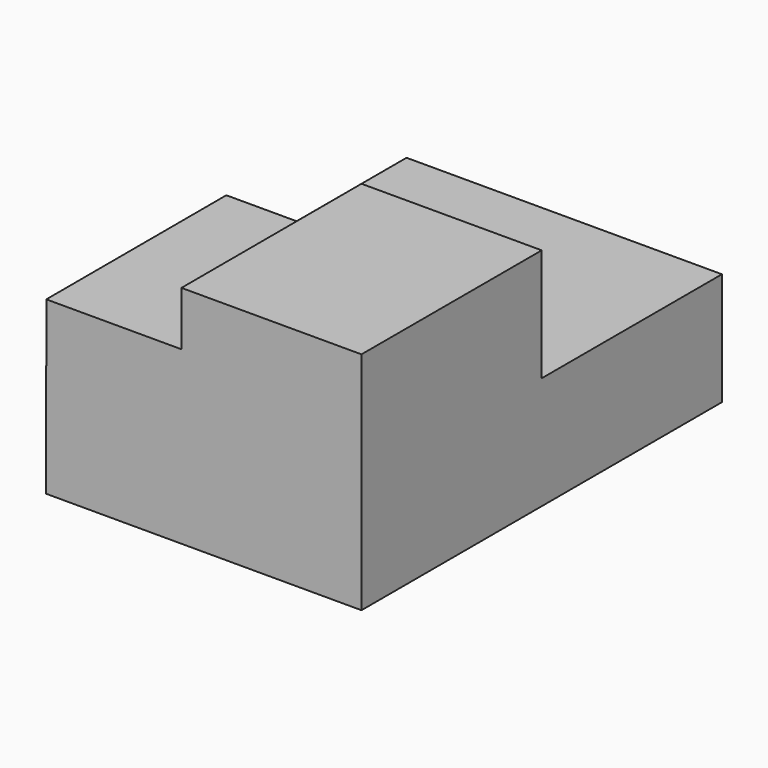
from build123d import *

# Parameters (mm, degrees)
F0_W     = 1778
F0_H     = 2540
F1_DEPTH = 635
F3_DEPTH = 635
F5_DEPTH = 330.2


with BuildPart() as f1:
    # F0 (on Top) → F1 (new body)
    with BuildSketch(Plane.XY):
        with Locations((125.754644, 1261.896089)):
            Rectangle(F0_W, F0_H)
    extrude(amount=F1_DEPTH)

    # F2 (on face) → F3 (join)
    with BuildSketch(Plane.XY.offset(635)):
        Polygon((0, -8.103911), (1014.754644, -8.103911), (1014.754644, 1261.896089), (-1.245356, 1261.896089), align=None)
    extrude(amount=F3_DEPTH)

    # F4 (on face) → F5 (join)
    with BuildSketch(Plane.XY.offset(635)):
        Polygon((-762, -8.103911), (0, -8.103911), (-1.245356, 1261.896089), (-763.245356, 1261.895478), align=None)
    extrude(amount=F5_DEPTH)


solid = f1.part
